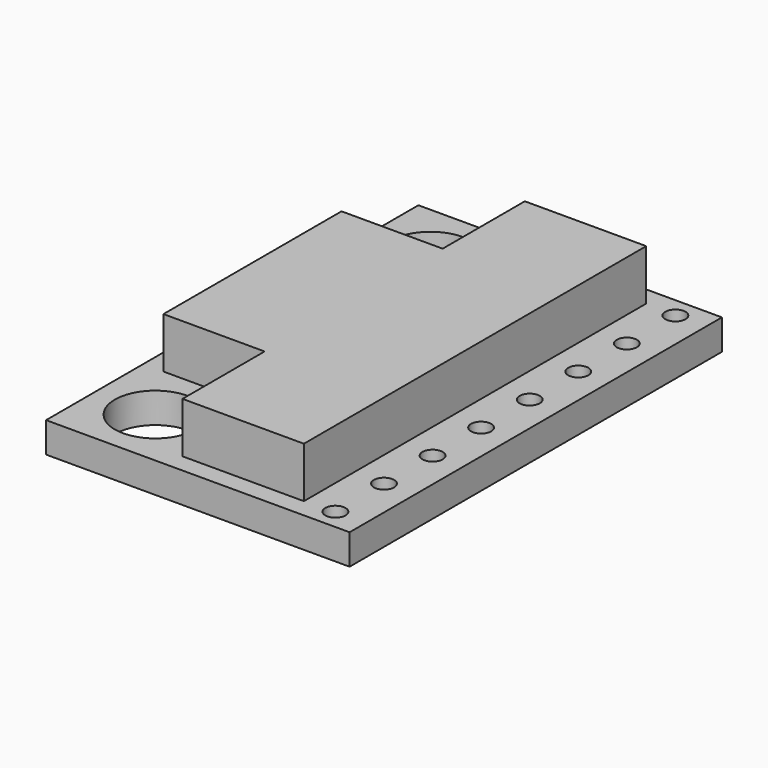
from build123d import *

# Parameters (mm, degrees)
F0_W     = 5
F0_H     = 11
F1_DEPTH = 4
F0_W_2   = 15
F0_H_2   = 23
F0_R     = 2
F0_R_2   = 0.5
F2_DEPTH = 1.5


with BuildPart() as f1:
    # F0 (on Top) → F1 (new body)
    with BuildSketch(Plane.XY):
        Polygon((-1.5, -10.573518), (4.5, -10.573518), (4.5, 10.573518), (-1.5, 10.573518), (-1.5, 5.5), (-1.5, -5.5), align=None)
        with Locations((-4, 0)):
            Rectangle(F0_W, F0_H)
    extrude(amount=F1_DEPTH)

    # F0 (on Top) → F2 (join)
    with BuildSketch(Plane.XY):
        Rectangle(F0_W_2, F0_H_2)
        with Locations((-4.5, -8.5)):
            Circle(F0_R, mode=Mode.SUBTRACT)
        with Locations((6, -10.5)):
            Circle(F0_R_2, mode=Mode.SUBTRACT)
        with Locations((6, -7.5)):
            Circle(F0_R_2, mode=Mode.SUBTRACT)
        with Locations((6, -4.5)):
            Circle(F0_R_2, mode=Mode.SUBTRACT)
        with Locations((6, -1.5)):
            Circle(F0_R_2, mode=Mode.SUBTRACT)
        Polygon((4.5, 10.573518), (4.5, -10.573518), (-1.5, -10.573518), (-1.5, -5.5), (-6.5, -5.5), (-6.5, 5.5), (-1.5, 5.5), (-1.5, 10.573518), align=None, mode=Mode.SUBTRACT)
        with Locations((-4.5, 8.5)):
            Circle(F0_R, mode=Mode.SUBTRACT)
        with Locations((6, 1.5)):
            Circle(F0_R_2, mode=Mode.SUBTRACT)
        with Locations((6, 4.5)):
            Circle(F0_R_2, mode=Mode.SUBTRACT)
        with Locations((6, 7.5)):
            Circle(F0_R_2, mode=Mode.SUBTRACT)
        with Locations((6, 10.5)):
            Circle(F0_R_2, mode=Mode.SUBTRACT)
    extrude(amount=F2_DEPTH)


solid = f1.part
